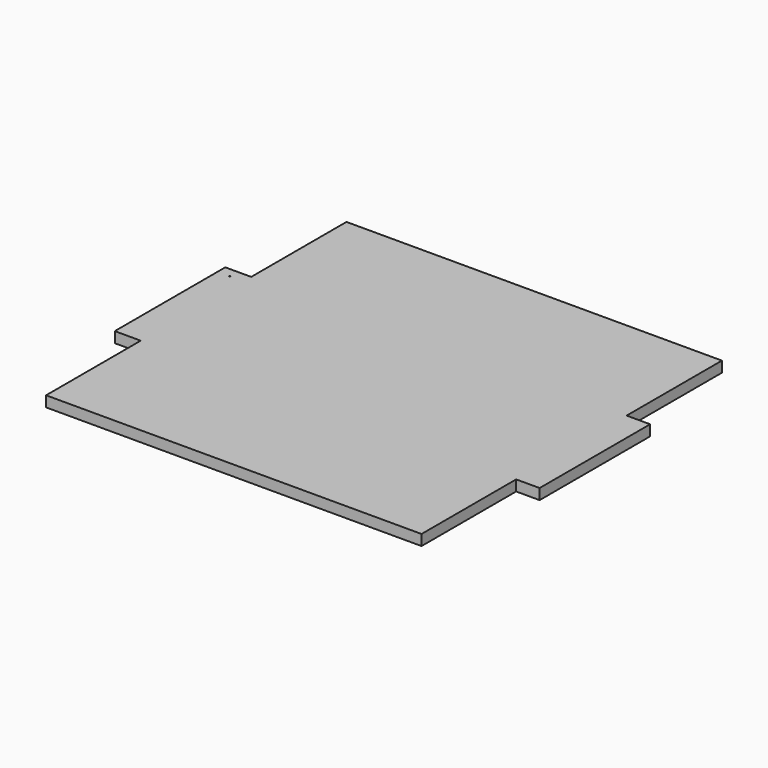
from build123d import *

# Parameters (mm, degrees)
F0_W     = 6.1728185973
F0_H     = 32.8961778432
F0_W_2   = 5.587325897
F1_DEPTH = 2.54
F3_D     = 0.254


with BuildPart() as f1:
    # F0 (on Top) → F1 (new body)
    with BuildSketch(Plane.XY):
        Polygon((44.704, 44.704), (-44.704, 44.704), (-44.704, 16.3502823561), (-44.704, -16.5458954871), (-44.704, -44.704), (44.704, -44.704), (44.704, -16.5458954871), (44.704, 16.3502823561), align=None)
        with Locations((-47.7904092987, -0.0978065655)):
            Rectangle(F0_W, F0_H)
        with Locations((47.4976629485, -0.0978065655)):
            Rectangle(F0_W_2, F0_H)
    extrude(amount=F1_DEPTH)

    # F3 (through all)
    with Locations(Plane(origin=(0, 0, 0), x_dir=(1, 0, 0), z_dir=(0, 0, -1))):
        with Locations((-47.9951798916, -14.0393497422)):
            Hole(F3_D / 2)


solid = f1.part
